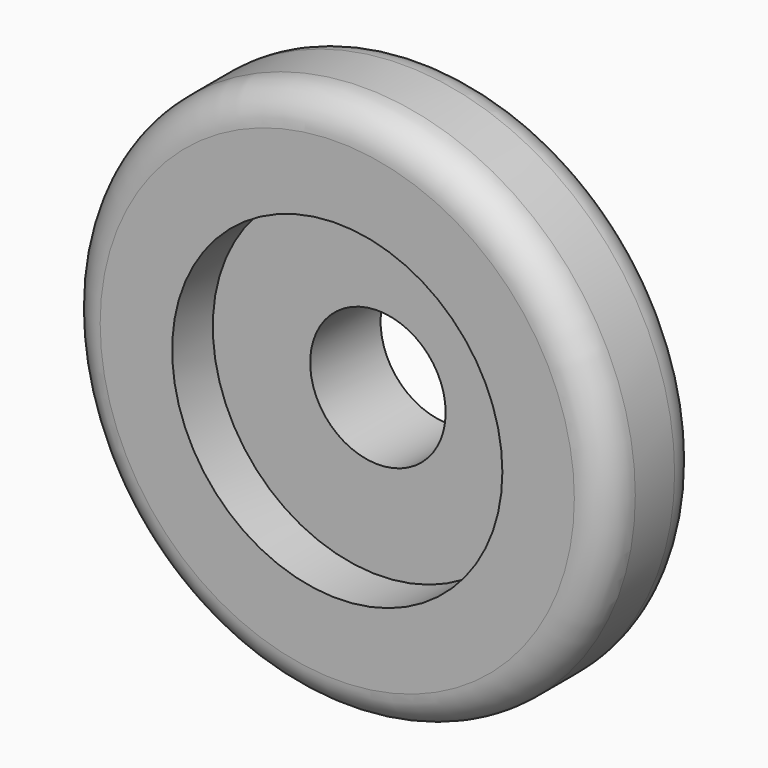
from build123d import *

# Parameters (mm, degrees)
F0_R     = 9.75
F0_R_2   = 4
F1_DEPTH = 3.9
F0_R_3   = 16
F2_DEPTH = 6.9
F3_R     = 8.2
F3_R_2   = 6.8
F4_DEPTH = 2.1
F3_R_3   = 4
F5_DEPTH = 1.3
F6_R     = 2


with BuildPart() as f1:
    # F0 (on Front) → F1 (new body)
    with BuildSketch(Plane.XZ):
        Circle(F0_R)
        Circle(F0_R_2, mode=Mode.SUBTRACT)
    extrude(amount=F1_DEPTH)

    # F0 (on Front) → F2 (join)
    with BuildSketch(Plane.XZ):
        Circle(F0_R_3)
        Circle(F0_R, mode=Mode.SUBTRACT)
    extrude(amount=F2_DEPTH)

    # F3 (on Front) → F4 (join)
    with BuildSketch(Plane.XZ):
        Circle(F3_R)
        Circle(F3_R_2, mode=Mode.SUBTRACT)
    extrude(amount=-F4_DEPTH)

    # F3 (on Front) → F5 (join)
    with BuildSketch(Plane.XZ):
        Circle(F3_R_2)
        Circle(F3_R_3, mode=Mode.SUBTRACT)
    extrude(amount=-F5_DEPTH)

    # F6
    f6_edges = [f1.edges().sort_by_distance(p)[0] for p in [
        (-16, -6.9, 0),
        (-16, 0, 0),
    ]]
    fillet(f6_edges, radius=F6_R)


solid = f1.part
